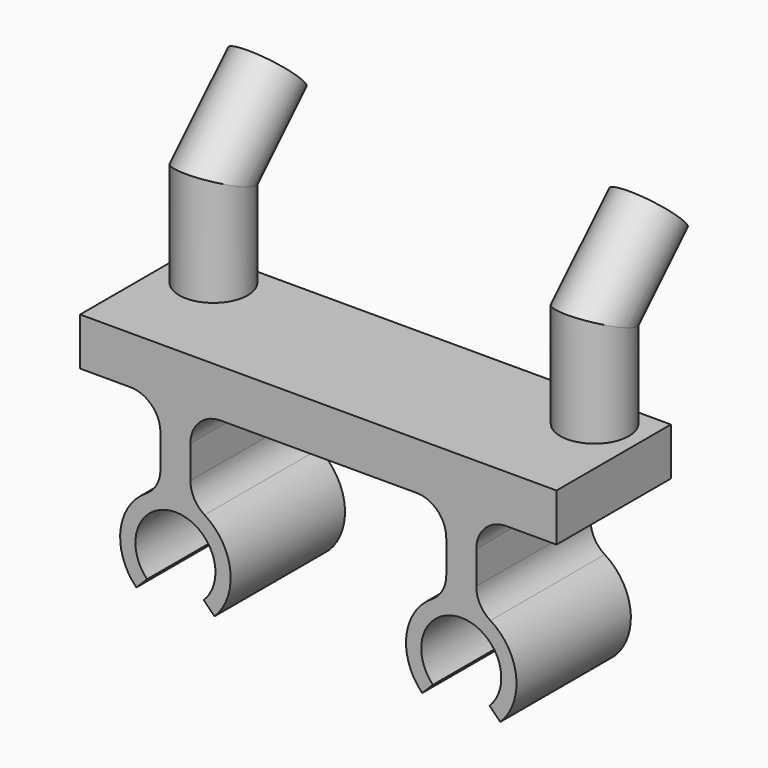
from build123d import *

# Parameters (mm, degrees)
F0_W      = 31.75
F0_H      = 9.525
F1_DEPTH  = 3.175
F4_R      = 2.286
F8_R      = 2.286
F11_DEPTH = 9.525
F12_R     = 2


with BuildPart() as f1:
    # F0 (on Top) → F1 (new body)
    with BuildSketch(Plane.XY):
        with Locations((15.875, 4.7625)):
            Rectangle(F0_W, F0_H)
    extrude(amount=F1_DEPTH)

    # F5: sweep along a path in F3
    with BuildLine(Plane.YZ.offset(28.575)) as f5_path:
        Line((7.1374, 3.175), (7.1374, 9.525))
        Line((7.1374, 9.525), (11.6275280605, 14.0151280605))
    # F4 (on face) → F5 (sweep)
    with BuildSketch(Plane.XY.offset(3.175)):
        with Locations((28.575, 7.1374)):
            Circle(F4_R)
    sweep(path=f5_path.line, transition=Transition.RIGHT)

    # F9: sweep along a path in F7
    with BuildLine(Plane.YZ.offset(3.175)) as f9_path:
        Line((7.1374, 3.175), (7.1374, 9.525))
        Line((7.1374, 9.525), (11.6275280605, 14.0151280605))
    # F8 (on face) → F9 (sweep)
    with BuildSketch(Plane.XY.offset(3.175)):
        with Locations((3.175, 7.1374)):
            Circle(F8_R)
    sweep(path=f9_path.line, transition=Transition.RIGHT)

    # F10 (on face) → F11 (join, through all)
    with BuildSketch(Plane(origin=(0, 9.525, 0), x_dir=(-1, 0, 0), z_dir=(0, 1, 0))):
        with BuildLine():
            ThreePointArc((-27.2858537854, -10.9028537854), (-25.4, -6.35), (-23.5141462146, -10.9028537854))
            Line((-23.5141462146, -10.9028537854), (-22.7957257249, -11.6212742751))
            ThreePointArc((-22.7957257249, -11.6212742751), (-21.8362951849, -8.0872166969), (-24.4, -5.4723577049))
            Line((-24.4, -5.4723577049), (-24.4, 0))
            Line((-24.4, 0), (-26.4, 0))
            Line((-26.4, 0), (-26.4, -5.4723577049))
            ThreePointArc((-26.4, -5.4723577049), (-28.9637048151, -8.0872166969), (-28.0042742751, -11.6212742751))
            Line((-28.0042742751, -11.6212742751), (-27.2858537854, -10.9028537854))
        make_face()
        with BuildLine():
            Line((-5.35, 0), (-7.35, 0))
            Line((-7.35, 0), (-7.35, -5.4723577049))
            ThreePointArc((-7.35, -5.4723577049), (-9.9137048151, -8.0872166969), (-8.9542742751, -11.6212742751))
            Line((-8.9542742751, -11.6212742751), (-8.2358537854, -10.9028537854))
            ThreePointArc((-8.2358537854, -10.9028537854), (-6.35, -6.35), (-4.4641462146, -10.9028537854))
            Line((-4.4641462146, -10.9028537854), (-3.7457257249, -11.6212742751))
            ThreePointArc((-3.7457257249, -11.6212742751), (-2.7862951849, -8.0872166969), (-5.35, -5.4723577049))
            Line((-5.35, -5.4723577049), (-5.35, 0))
        make_face()
    extrude(amount=-F11_DEPTH)

    # F12
    f12_edges = [f1.edges().sort_by_distance(p)[0] for p in [
        (26.4, 4.7625, 0),
        (24.4, 4.7625, 0),
        (7.35, 4.7625, 0),
        (5.35, 4.7625, 0),
        (24.4, 4.7625, -5.472358),
        (26.4, 4.7625, -5.472358),
        (7.35, 4.7625, -5.472358),
        (5.35, 4.7625, -5.472358),
    ]]
    fillet(f12_edges, radius=F12_R)


solid = f1.part
